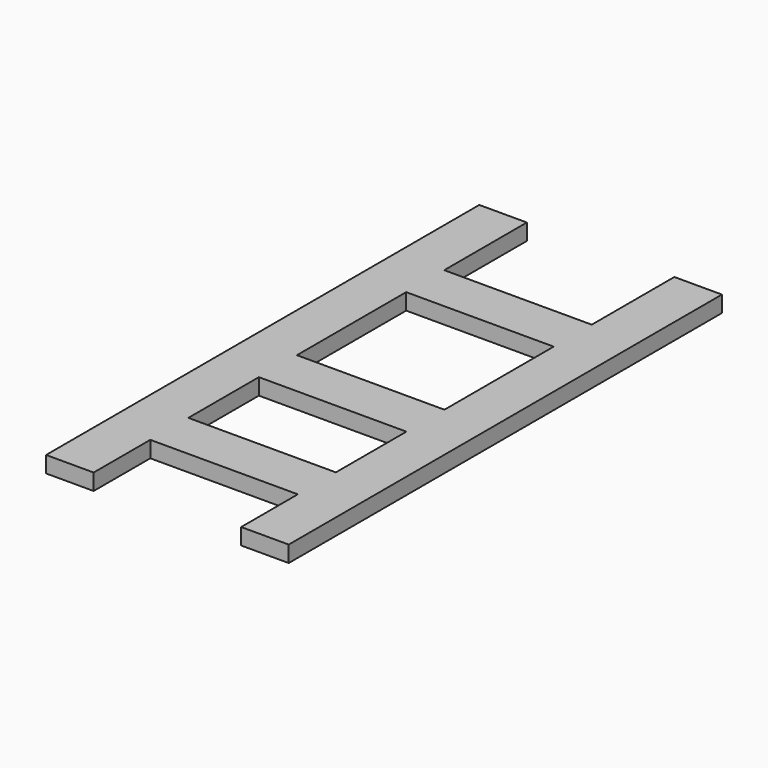
from build123d import *

# Parameters (mm, degrees)
F0_W     = 31.75
F0_H     = 20.4724
F0_W_2   = 63.5
F1_DEPTH = 7.0104


with BuildPart() as f1:
    # F0 (on Top) → F1 (new body)
    with BuildSketch(Plane.XY):
        Polygon((-56.468111, 123.5202), (-76.940511, 123.5202), (-76.940511, -109.5502), (-56.468111, -109.5502), (-56.468111, -79.0702), (-56.468111, -58.5978), (-56.468111, -20.6502), (-56.468111, -0.1778), (-56.468111, 58.5978), (-56.468111, 79.0702), align=None)
        with Locations((-40.593111, 68.834)):
            Rectangle(F0_W, F0_H)
        with Locations((-8.843111, 68.834)):
            Rectangle(F0_W, F0_H)
        Polygon((7.031889, 123.5202), (7.031889, 79.0702), (7.031889, 58.5978), (7.031889, -0.1778), (7.031889, -20.6502), (7.031889, -58.5978), (7.031889, -79.0702), (7.031889, -109.5502), (27.504289, -109.5502), (27.504289, 123.5202), align=None)
        with Locations((-24.718111, -10.414)):
            Rectangle(F0_W_2, F0_H)
        with Locations((-40.593111, -68.834)):
            Rectangle(F0_W, F0_H)
        with Locations((-8.843111, -68.834)):
            Rectangle(F0_W, F0_H)
    extrude(amount=F1_DEPTH)


solid = f1.part
